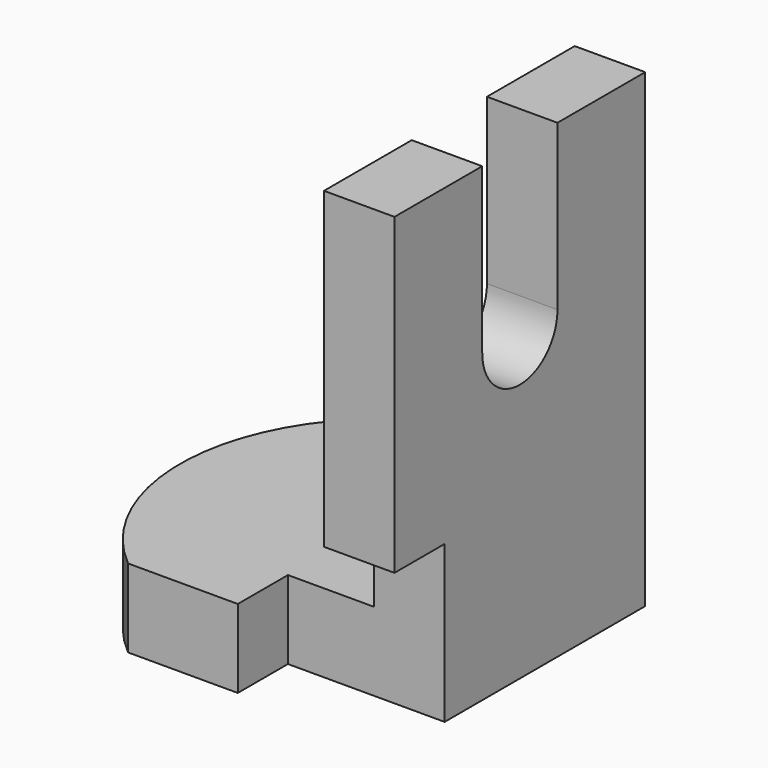
from build123d import *

# Parameters (mm, degrees)
F1_DEPTH = 101.6
F3_DEPTH = 25.401
F4_W     = 50.8
F4_H     = 50.8
F5_DEPTH = 20.32
F7_DEPTH = 22.861


with BuildPart() as f1:
    # F0 (on Front) → F1 (new body)
    with BuildSketch(Plane.XZ):
        Polygon((22.86, 152.4), (0, 152.4), (0, 25.4), (-88.9, 25.4), (-88.9, 0), (0, 0), (22.86, 0), align=None)
    extrude(amount=F1_DEPTH)

    # F2 (on face) → F3 (cut, through all)
    with BuildSketch(Plane.XY.offset(25.4)):
        with BuildLine():
            Line((-88.9, -101.6), (-63.5, -101.6))
            ThreePointArc((-63.5, -101.6), (-87.342351, -50.8), (-63.5, 0))
            Line((-63.5, 0), (-88.9, 0))
            Line((-88.9, 0), (-88.9, -101.6))
        make_face()
    extrude(amount=-F3_DEPTH, mode=Mode.SUBTRACT)

    # F4 (on face) → F5 (cut)
    with BuildSketch(Plane.XZ.offset(101.6)):
        with Locations((-2.54, 25.4)):
            Rectangle(F4_W, F4_H)
    extrude(amount=-F5_DEPTH, mode=Mode.SUBTRACT)

    # F6 (on face) → F7 (cut, through all)
    with BuildSketch(Plane(origin=(0, 0, 0), x_dir=(0, -1, 0), z_dir=(-1, 0, 0))):
        with BuildLine():
            Line((66.04, 152.4), (35.56, 152.4))
            Line((35.56, 152.4), (35.56, 99.06))
            ThreePointArc((35.56, 99.06), (50.8, 83.82), (66.04, 99.06))
            Line((66.04, 99.06), (66.04, 152.4))
        make_face()
    extrude(amount=-F7_DEPTH, mode=Mode.SUBTRACT)


solid = f1.part
